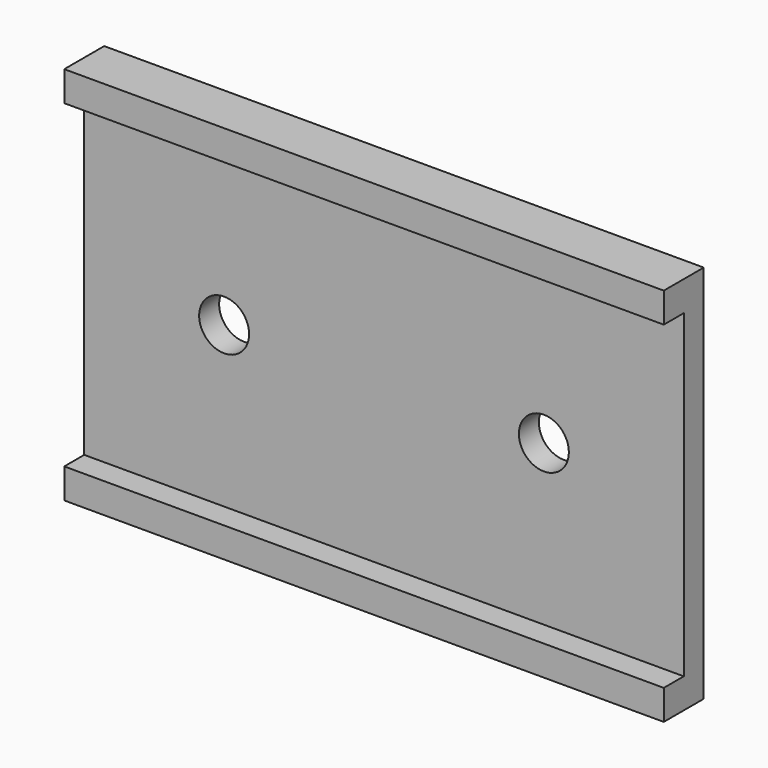
from build123d import *

# Parameters (mm, degrees)
F0_W     = 38.1
F0_H     = 19.05
F1_DEPTH = 1.5875
F2_R     = 1.5875
F3_DEPTH = 1.5885
F4_W     = 38.1
F4_H     = 2.54
F5_DEPTH = 1.5875
F6_W     = 38.1
F6_H     = 0.635
F7_DEPTH = 1.5875
F8_W     = 38.1
F8_H     = 0.635
F9_DEPTH = 1.5875


with BuildPart() as f1:
    # F0 (on Front) → F1 (new body)
    with BuildSketch(Plane.XZ):
        Rectangle(F0_W, F0_H)
    extrude(amount=F1_DEPTH)

    # F2 (on face) → F3 (cut, through all)
    with BuildSketch(Plane.XZ.offset(1.5875)):
        with Locations((-10.16, 0)):
            Circle(F2_R)
        with Locations((10.16, 0)):
            Circle(F2_R)
    extrude(amount=-F3_DEPTH, mode=Mode.SUBTRACT)

    # F4 (on face) → F5 (join, symmetric)
    with BuildSketch(Plane.XZ.offset(1.5875)):
        with Locations((0, -10.795)):
            Rectangle(F4_W, F4_H)
        with Locations((0, 10.795)):
            Rectangle(F4_W, F4_H)
    extrude(amount=F5_DEPTH, both=True)

    # F6 (on face) → F7 (cut)
    with BuildSketch(Plane.XZ.offset(3.175)):
        with Locations((0, 9.8425)):
            Rectangle(F6_W, F6_H)
    extrude(amount=-F7_DEPTH, mode=Mode.SUBTRACT)

    # F8 (on face) → F9 (cut)
    with BuildSketch(Plane.XZ.offset(3.175)):
        with Locations((0, -9.8425)):
            Rectangle(F8_W, F8_H)
    extrude(amount=-F9_DEPTH, mode=Mode.SUBTRACT)


solid = f1.part
